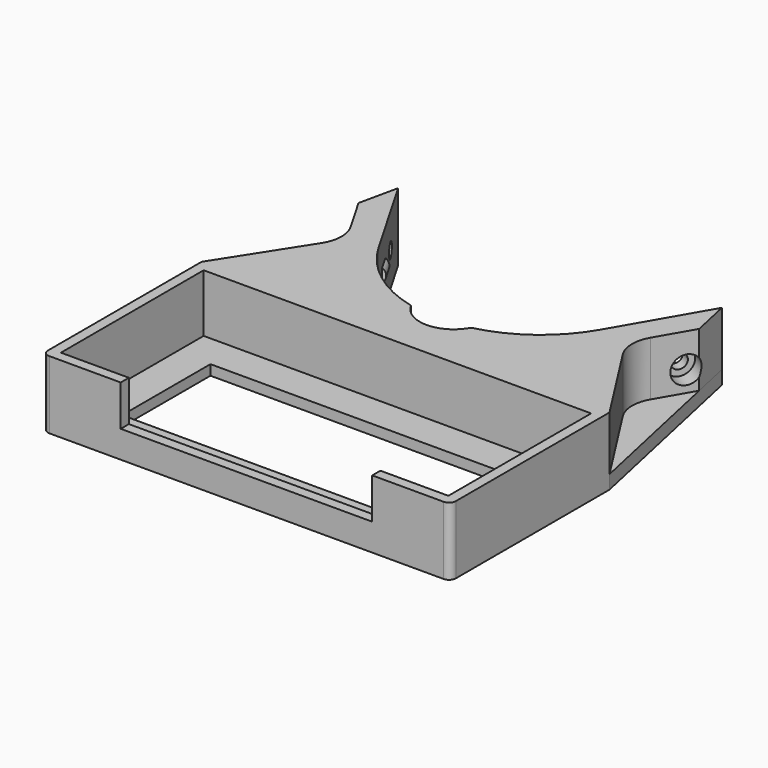
from build123d import *

# Parameters (mm, degrees)
CYLINDER001_R               = 4
CYLINDER001_DEPTH           = 30
CYLINDER_R                  = 2.2
CYLINDER_DEPTH              = 30
COMPOUND001_PLACEMENT_ANGLE = 60
BOX001_W                    = 114
BOX001_H                    = 52.5
BOX001_DEPTH                = 20
BOX002_W                    = 94
BOX002_H                    = 32.5
BOX002_DEPTH                = 20
BOX003_W                    = 74
BOX003_H                    = 10
BOX003_DEPTH                = 15
CYLINDER002_R               = 10
CYLINDER002_DEPTH           = 50
PAD_DEPTH                   = 4
PAD001_DEPTH                = 20
CYLINDER003_W               = 2.5
CYLINDER003_H               = 5
CYLINDER003_ANGLE           = 180
COMPOUND002_PLACEMENT_ANGLE = 60
BOX_W                       = 120
BOX_H                       = 58.5
BOX_DEPTH                   = 20
FILLET_R                    = 2


with BuildPart() as bolt_head_hole:
    # Cylinder001 → Cylinder001 (new body)
    with BuildSketch(Plane.XZ.offset(14)):
        Circle(CYLINDER001_R)
    extrude(amount=CYLINDER001_DEPTH)


with BuildPart() as bolt_hole_array_compound:
    # Cylinder → Cylinder (new body)
    with BuildSketch(Plane.XZ):
        Circle(CYLINDER_R)
    extrude(amount=CYLINDER_DEPTH)

    # Fusion002: union bolt head hole
    add(bolt_head_hole.part)


with BuildPart() as bolt_hole_array_compound_1:
    # Compound001 placement: moved
    add(bolt_hole_array_compound.part.moved(Location((-32.3149, 81.256849, 10))).rotate(Axis((-32.3149, 81.256849, 10), (0, 0, -1)), COMPOUND001_PLACEMENT_ANGLE))


with BuildPart() as part_mirroring:
    # Part__Mirroring: instance of bolt hole array compound
    add(bolt_hole_array_compound_1.part.mirror(Plane(origin=(0, 0, 0), x_dir=(0, -1, 0), z_dir=(1, 0, 0))))


with BuildPart() as obj1:
    # Box001 → Box001 (new body)
    with BuildSketch(Plane(origin=(-57, -26.25, 3), x_dir=(1, 0, 0), z_dir=(0, 0, 1))):
        with Locations((57, 26.25)):
            Rectangle(BOX001_W, BOX001_H)
    extrude(amount=BOX001_DEPTH)


with BuildPart() as obj2:
    # Box002 → Box002 (new body)
    with BuildSketch(Plane(origin=(-47, -16.25, 0), x_dir=(1, 0, 0), z_dir=(0, 0, 1))):
        with Locations((47, 16.25)):
            Rectangle(BOX002_W, BOX002_H)
    extrude(amount=BOX002_DEPTH)


with BuildPart() as switch_pocket:
    # Box003 → Box003 (new body)
    with BuildSketch(Plane(origin=(-37, -31.25, 8), x_dir=(1, 0, 0), z_dir=(0, 0, 1))):
        with Locations((37, 5)):
            Rectangle(BOX003_W, BOX003_H)
    extrude(amount=BOX003_DEPTH)


with BuildPart() as center_remove_cylinder:
    # Cylinder002 → Cylinder002 (new body)
    with BuildSketch(Plane(origin=(0, 47, -25), x_dir=(1, 0, 0), z_dir=(0, 0, 1))):
        Circle(CYLINDER002_R)
    extrude(amount=CYLINDER002_DEPTH)


with BuildPart() as extract_fusion:
    # Fusion003 base: copy of bolt hole array compound
    add(bolt_hole_array_compound_1.part)

    # Fusion003: union Part__Mirroring, obj1, obj2, switch pocket, center remove cylinder
    add(part_mirroring.part)
    add(obj1.part)
    add(obj2.part)
    add(switch_pocket.part)
    add(center_remove_cylinder.part)


with BuildPart() as bottom_body:
    # Sketch → Pad (new body)
    with BuildSketch(Plane.XY):
        with BuildLine():
            Line((-60, 29.25), (60, 29.25))
            Line((60, 29.25), (47.625, 86.066815))
            Line((32.625, 60.086053), (47.625, 86.066815))
            ThreePointArc((-32.625, 60.086053), (0, 41.25), (32.625, 60.086053))
            Line((-32.625, 60.086053), (-47.625, 86.066815))
            Line((-60, 29.25), (-47.625, 86.066815))
        make_face()
    extrude(amount=PAD_DEPTH)


with BuildPart() as bolt_wall_body:
    # Sketch001 → Pad001 (new body)
    with BuildSketch(Plane.XY):
        with BuildLine():
            Line((-47.625, 86.066815), (-32.625, 60.086053))
            ThreePointArc((-32.625, 60.086053), (0, 41.25), (32.625, 60.086053))
            Line((32.625, 60.086053), (47.625, 86.066815))
            Line((50.123562, 74.595272), (47.625, 86.066815))
            Line((44.094416, 64.152484), (50.123562, 74.595272))
            ThreePointArc((44.094416, 64.152484), (42.751879, 58.90179), (44.333925, 53.718226))
            Line((44.333925, 53.718226), (60, 29.25))
            Line((60, 29.25), (-60, 29.25))
            Line((-44.333925, 53.718226), (-60, 29.25))
            ThreePointArc((-44.333925, 53.718226), (-42.751879, 58.90179), (-44.094416, 64.152484))
            Line((-50.123562, 74.595272), (-44.094416, 64.152484))
            Line((-50.123562, 74.595272), (-47.625, 86.066815))
        make_face()
    extrude(amount=PAD001_DEPTH)


with BuildPart() as bolt_hole_array_compound001:
    # Cylinder003 → Cylinder003 (revolve)
    with BuildSketch(Plane(origin=(0, 0, 0), x_dir=(0, 0, -1), z_dir=(0, -1, 0))):
        with Locations((1.25, 2.5)):
            Rectangle(CYLINDER003_W, CYLINDER003_H)
    revolve(axis=Axis((0, 0, 0), (1, 0, 0)), revolution_arc=CYLINDER003_ANGLE)


with BuildPart() as bolt_hole_array_compound001_1:
    # Compound002 placement: moved
    add(bolt_hole_array_compound001.part.moved(Location((-39.21, 68.392051, 10))).rotate(Axis((-39.21, 68.392051, 10), (0, 0, -1)), COMPOUND002_PLACEMENT_ANGLE))


with BuildPart() as part_mirroring003:
    # Part__Mirroring003: instance of bolt hole array compound001
    add(bolt_hole_array_compound001_1.part.mirror(Plane(origin=(0, 0, 0), x_dir=(0, -1, 0), z_dir=(1, 0, 0))))


with BuildPart() as bolt_wall_body_cut:
    # Box → Box (new body)
    with BuildSketch(Plane(origin=(-60, -29.25, 0), x_dir=(1, 0, 0), z_dir=(0, 0, 1))):
        with Locations((60, 29.25)):
            Rectangle(BOX_W, BOX_H)
    extrude(amount=BOX_DEPTH)

    # Fillet
    fillet_edges = [bolt_wall_body_cut.edges().sort_by_distance(p)[0] for p in [
        (-60, -29.25, 10),
        (60, -29.25, 10),
    ]]
    fillet(fillet_edges, radius=FILLET_R)

    # Fusion: union bottom_body, bolt wall body, bolt hole array compound001, Part__Mirroring003
    add(bottom_body.part)
    add(bolt_wall_body.part)
    add(bolt_hole_array_compound001_1.part)
    add(part_mirroring003.part)

    # Cut001: cut extract fusion
    add(extract_fusion.part, mode=Mode.SUBTRACT)


solid = bolt_wall_body_cut.part
